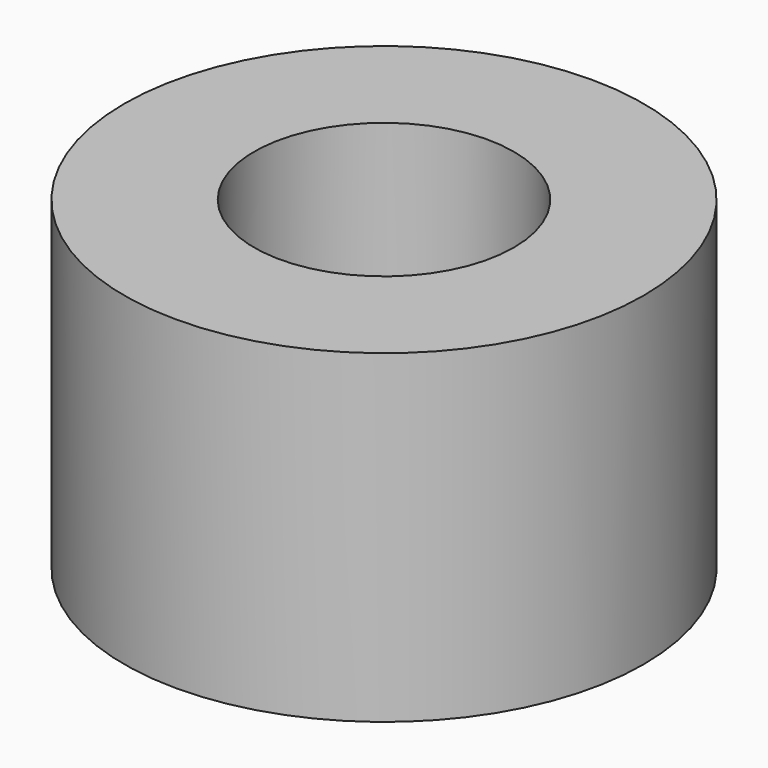
from build123d import *

# Parameters (mm, degrees)
CYLINDER032_R     = 1
CYLINDER032_DEPTH = 2.5
CYLINDER031_R     = 2
CYLINDER031_DEPTH = 2.5


with BuildPart() as hole_pcb_master007:
    # Cylinder032 → Cylinder032 (new body)
    with BuildSketch(Plane(origin=(15.8956, 9.8956, 0), x_dir=(1, 0, 0), z_dir=(0, 0, 1))):
        Circle(CYLINDER032_R)
    extrude(amount=CYLINDER032_DEPTH)


with BuildPart() as pcb_support:
    # Cylinder031 → Cylinder031 (new body)
    with BuildSketch(Plane(origin=(15.8956, 9.8956, 0), x_dir=(1, 0, 0), z_dir=(0, 0, 1))):
        Circle(CYLINDER031_R)
    extrude(amount=CYLINDER031_DEPTH)

    # Cut031: cut hole_PCB_master007
    add(hole_pcb_master007.part, mode=Mode.SUBTRACT)


with BuildPart() as pcb_support_1:
    # Cut031 placement: moved
    add(pcb_support.part.moved(Location((0, 0, 1))))


solid = pcb_support_1.part
